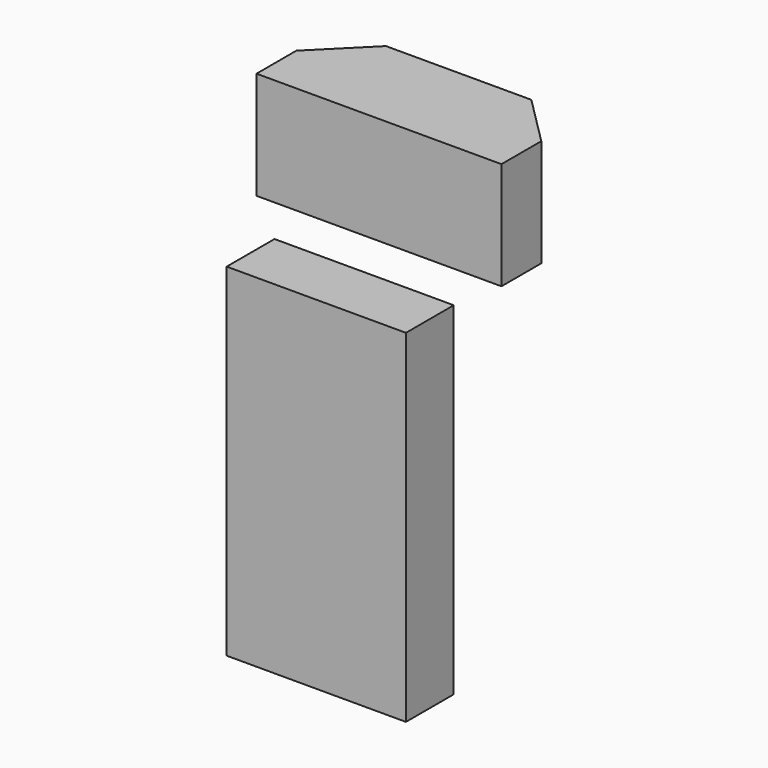
from build123d import *

# Parameters (mm, degrees)
F1_DEPTH = 540
F2_W     = 900
F2_H     = 300
F3_DEPTH = 1720


with BuildPart() as f1:
    # F0 (on Top) → F1 (new body)
    with BuildSketch(Plane.XY):
        Polygon((-250, 95.760109), (-250, -154.239891), (980, -154.239891), (980, 95.760109), (730, 345.760109), (0, 345.760109), align=None)
    extrude(amount=F1_DEPTH)


with BuildPart() as f3:
    # F2 (on face) → F3 (new body)
    with BuildSketch(Plane(origin=(0, 0, 0), x_dir=(1, 0, 0), z_dir=(0, 0, -1))):
        with Locations((484.181414, 546.535194)):
            Rectangle(F2_W, F2_H)
    extrude(amount=F3_DEPTH)


solid = Compound([f1.part, f3.part])
